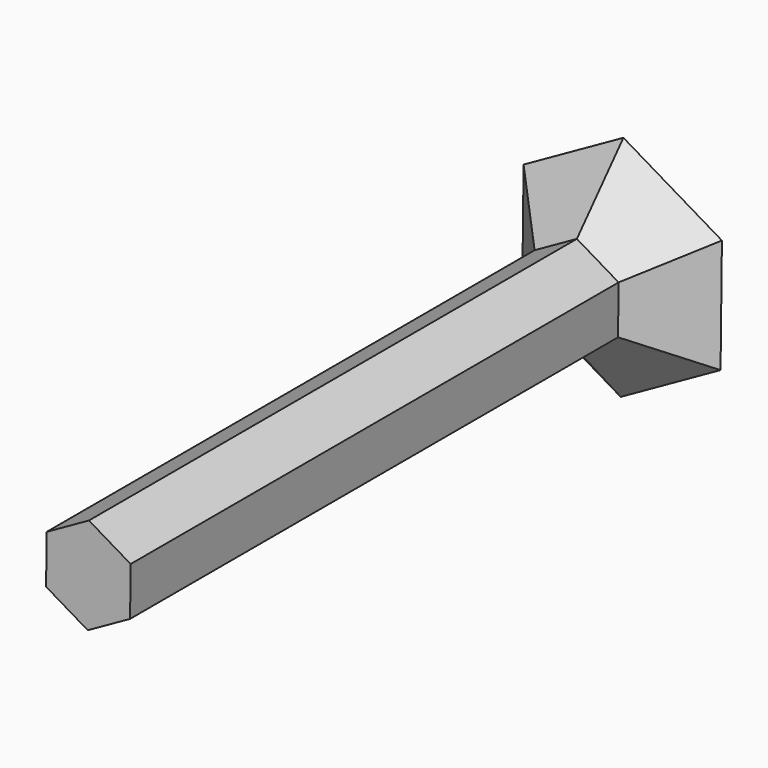
from build123d import *

# Parameters (mm, degrees)
F1_DEPTH = 160
F2_DEPTH = 15
F2_TAPER = -45


with BuildPart() as f1:
    # F0 (on Front) → F1 (new body)
    with BuildSketch(Plane.XZ):
        Polygon((-11.0924346075, -6.2292919213), (-0.1514922523, -12.7209761205), (10.9409423552, -6.4916841992), (11.0924346075, 6.2292919213), (0.1514922523, 12.7209761205), (-10.9409423552, 6.4916841992), align=None)
    extrude(amount=F1_DEPTH)

    # F1_face (on face) → F2 (join)
    with BuildSketch(Plane(origin=(0, 0, 0), x_dir=(1, 0, 0), z_dir=(0, 1, 0))):
        Polygon((-10.9409423552, -6.4916841992), (0.1514922523, -12.7209761205), (11.0924346075, -6.2292919213), (10.9409423552, 6.4916841992), (-0.1514922523, 12.7209761205), (-11.0924346075, 6.2292919213), align=None)
    extrude(amount=F2_DEPTH, taper=F2_TAPER)


solid = f1.part
